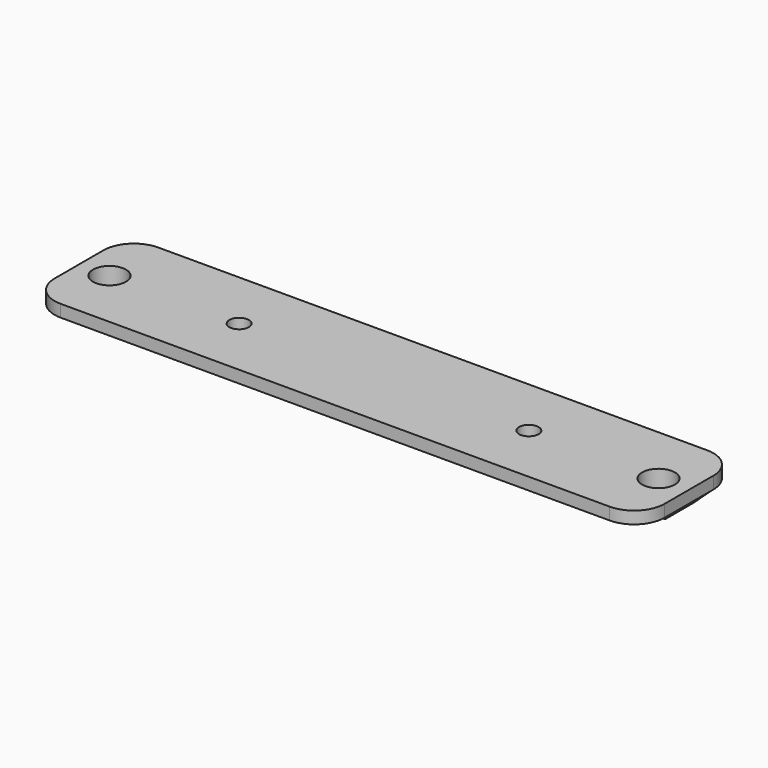
from build123d import *

# Parameters (mm, degrees)
F1_DEPTH = 2
F3_DEPTH = 100
F4_R     = 2.7
F4_R_2   = 1.6
F5_DEPTH = 3.601
F6_SIZE  = 1.6


with BuildPart() as f1:
    # F0 (on Top) → F1 (new body)
    with BuildSketch(Plane.XY):
        with BuildLine():
            ThreePointArc((50, 5), (48.535534, 8.535534), (45, 10))
            Line((45, 10), (-45, 10))
            ThreePointArc((-45, 10), (-48.535534, 8.535534), (-50, 5))
            Line((-50, 5), (-50, -5))
            ThreePointArc((-50, -5), (-48.535534, -8.535534), (-45, -10))
            Line((-45, -10), (45, -10))
            ThreePointArc((45, -10), (48.535534, -8.535534), (50, -5))
            Line((50, -5), (50, 5))
        make_face()
    extrude(amount=F1_DEPTH)

    # F2 (on face) → F3 (join, through all)
    with BuildSketch(Plane(origin=(-50, 0, 0), x_dir=(0, -1, 0), z_dir=(-1, 0, 0))):
        Polygon((-4.5, 0), (-2.9, -1.6), (2.9, -1.6), (4.5, 0), align=None)
    extrude(amount=-F3_DEPTH)

    # F4 (on face) → F5 (cut, through all)
    with BuildSketch(Plane.XY.offset(2)):
        with Locations((-45, 0)):
            Circle(F4_R)
        with Locations((45, 0)):
            Circle(F4_R)
        with Locations((23.75, 0)):
            Circle(F4_R_2)
        with Locations((-23.75, 0)):
            Circle(F4_R_2)
    extrude(amount=-F5_DEPTH, mode=Mode.SUBTRACT)

    # F6
    f6_edges = [f1.edges().sort_by_distance(p)[0] for p in [
        (-50, 0, -1.6),
        (50, 0, -1.6),
    ]]
    chamfer(f6_edges, length=F6_SIZE)


solid = f1.part
